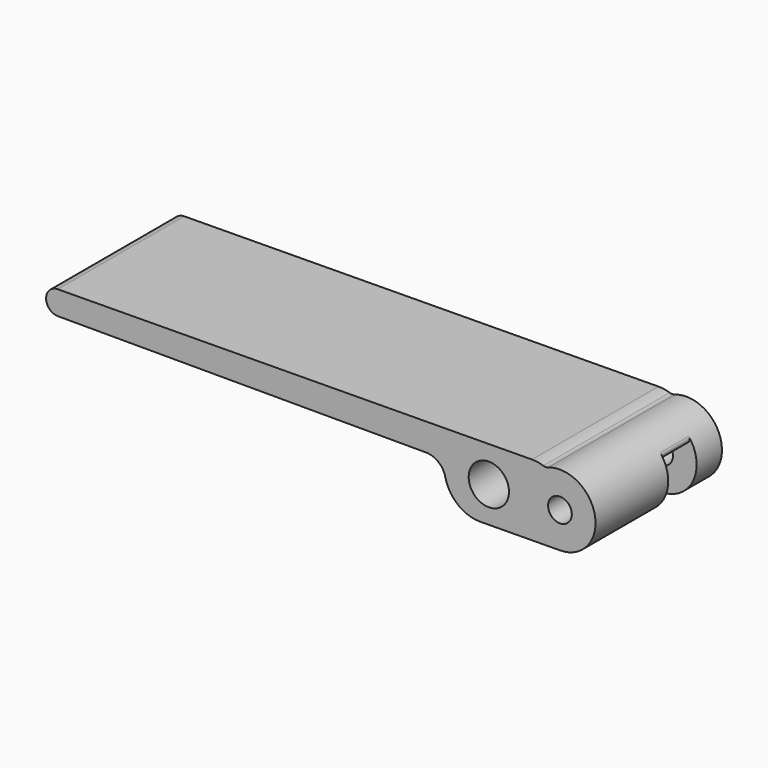
from build123d import *

# Parameters (mm, degrees)
SKETCH006_R   = 3
SKETCH006_R_2 = 5.1
PAD003_DEPTH  = 40
POCKET_DEPTH  = 4.5
FILLET_R      = 1


with BuildPart() as part:
    # Sketch006 → Pad003 (new body)
    with BuildSketch(Plane.XZ.offset(-12.5)):
        with BuildLine():
            ThreePointArc((30.081867, 41.000372), (38.868733, 51.531528), (27.05887, 58.505866))
            ThreePointArc((25.786195, 58.494289), (26.423478, 58.396141), (27.05887, 58.505866))
            ThreePointArc((25.786195, 58.494289), (24.370225, 58.831452), (22.918423, 58.935953))
            Line((-97.076613, 57.844394), (22.918423, 58.935953))
            ThreePointArc((-97.076613, 57.844394), (-100.049297, 54.831898), (-97.051373, 51.844519))
            Line((-97.051373, 51.844519), (-3.880643, 51.780882))
            ThreePointArc((0.997022, 47.864886), (-0.75383, 50.679815), (-3.880643, 51.780882))
            ThreePointArc((0.997022, 47.864886), (4.182938, 42.770547), (9.864832, 40.816464))
            Line((30.081867, 41.000372), (9.864832, 40.816464))
        make_face()
        with Locations((30, 50)):
            Circle(SKETCH006_R, mode=Mode.SUBTRACT)
        with Locations((12.000745, 49.836266)):
            Circle(SKETCH006_R_2, mode=Mode.SUBTRACT)
    extrude(amount=PAD003_DEPTH)

    # Sketch007 → Pocket (cut, symmetric)
    with BuildSketch(Plane.XZ):
        with BuildLine():
            Line((-3.770677, 39.692385), (42.090467, 40.10957))
            Line((42.090467, 40.10957), (41.963118, 54.10899))
            Line((41.963118, 54.10899), (-1.987102, 53.709188))
            ThreePointArc((-1.987102, 53.709188), (-3.333238, 53.1372), (-3.880643, 51.780882))
            Line((-3.770677, 39.692385), (-3.880643, 51.780882))
        make_face()
    extrude(amount=POCKET_DEPTH, both=True, mode=Mode.SUBTRACT)

    # Fillet
    fillet_edges = [part.edges().sort_by_distance(p)[0] for p in [
        (38.025539, 0, 54.073171),
    ]]
    fillet(fillet_edges, radius=FILLET_R)


solid = part.part
